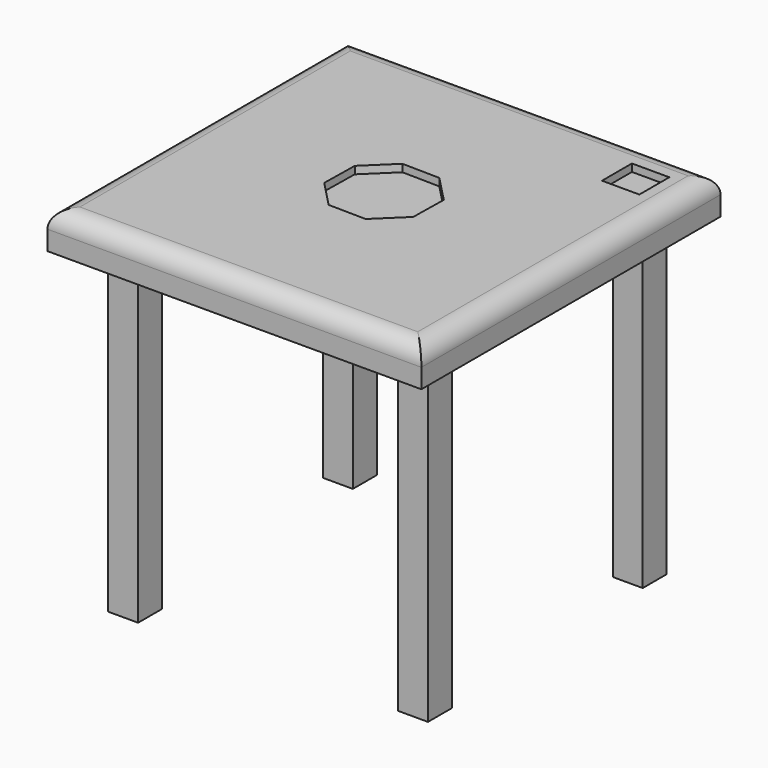
from build123d import *

# Parameters (mm, degrees)
F0_W     = 1000
F0_H     = 1000
F1_DEPTH = 100
F2_R     = 48.284271
F4_DEPTH = 20
F5_W     = 100
F5_H     = 100
F6_DEPTH = 20
F7_W     = 80
F7_H     = 80
F8_DEPTH = 850


with BuildPart() as f1:
    # F0 (on Top) → F1 (new body)
    with BuildSketch(Plane.XY):
        Rectangle(F0_W, F0_H)
    extrude(amount=F1_DEPTH)

    # F2
    f2_edges = [f1.edges().sort_by_distance(p)[0] for p in [
        (0, 500, 100),
        (-500, 0, 100),
        (0, -500, 100),
        (500, 0, 100),
    ]]
    fillet(f2_edges, radius=F2_R)

    # F3 (on face) → F4 (cut)
    with BuildSketch(Plane.XY.offset(100)):
        Polygon((-47.904409, 121.557539), (-119.827693, 52.080628), (-121.557539, -47.904409), (-52.080628, -119.827693), (47.904409, -121.557539), (119.827693, -52.080628), (121.557539, 47.904409), (52.080628, 119.827693), align=None)
    extrude(amount=-F4_DEPTH, mode=Mode.SUBTRACT)

    # F5 (on face) → F6 (cut)
    with BuildSketch(Plane.XY.offset(100)):
        with Locations((375.25773, 372.018505)):
            Rectangle(F5_W, F5_H)
    extrude(amount=-F6_DEPTH, mode=Mode.SUBTRACT)

    # F7 (on face) → F8 (join)
    with BuildSketch(Plane(origin=(0, 0, 0), x_dir=(1, 0, 0), z_dir=(0, 0, -1))):
        with Locations((-362.403053, 378.894394)):
            Rectangle(F7_W, F7_H)
        with Locations((390.322966, 350.974482)):
            Rectangle(F7_W, F7_H)
        with Locations((362.403053, -401.751537)):
            Rectangle(F7_W, F7_H)
        with Locations((-390.322966, -373.831624)):
            Rectangle(F7_W, F7_H)
    extrude(amount=F8_DEPTH)


solid = f1.part
